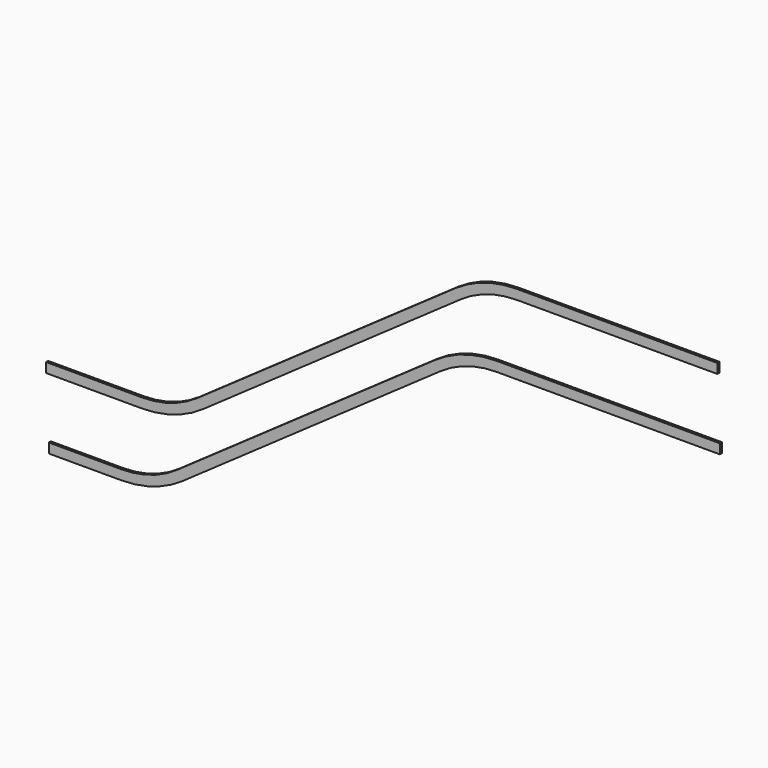
from build123d import *

# Parameters (mm, degrees)
F1_DEPTH = 10


with BuildPart() as f1:
    # F0 (on Front) → F1 (new body)
    with BuildSketch(Plane.XZ):
        with BuildLine():
            Line((1253.941721, 766.875871), (2127.822205, 766.875871))
            Line((2127.822205, 766.875871), (2127.822205, 804.875871))
            Line((2127.822205, 804.875871), (1253.941721, 804.875871))
            ThreePointArc((1253.941721, 804.875871), (1127.945991, 785.483273), (1013.613194, 729.100577))
            Line((1013.613194, 729.100577), (5.958407, 23.5331))
            ThreePointArc((5.958407, 23.5331), (-98.005306, -27.73613), (-212.574215, -45.369971))
            Line((-212.574215, -45.369971), (-495.9647, -45.369971))
            Line((-495.9647, -45.369971), (-495.9647, -83.369971))
            Line((-495.9647, -83.369971), (-212.574215, -83.369971))
            ThreePointArc((-212.574215, -83.369971), (-86.578485, -63.977374), (27.754312, -7.594678))
            Line((27.754312, -7.594678), (1035.409098, 697.9728))
            ThreePointArc((1035.409098, 697.9728), (1139.372811, 749.242029), (1253.941721, 766.875871))
        make_face()
        with BuildLine():
            Line((1333.941721, 1040.375871), (2117.822205, 1040.375871))
            Line((2117.822205, 1040.375871), (2117.822205, 1078.375871))
            Line((2117.822205, 1078.375871), (1333.941721, 1078.375871))
            ThreePointArc((1333.941721, 1078.375871), (1207.945991, 1058.983273), (1093.613194, 1002.600577))
            Line((1093.613194, 1002.600577), (85.958407, 297.0331))
            ThreePointArc((85.958407, 297.0331), (-18.005306, 245.76387), (-132.574215, 228.130029))
            Line((-132.574215, 228.130029), (-506.4547, 228.130029))
            Line((-506.4547, 228.130029), (-506.4547, 190.130029))
            Line((-506.4547, 190.130029), (-132.574215, 190.130029))
            ThreePointArc((-132.574215, 190.130029), (-6.578485, 209.522626), (107.754312, 265.905322))
            Line((107.754312, 265.905322), (1115.409098, 971.4728))
            ThreePointArc((1115.409098, 971.4728), (1219.372811, 1022.742029), (1333.941721, 1040.375871))
        make_face()
    extrude(amount=F1_DEPTH)


solid = f1.part
